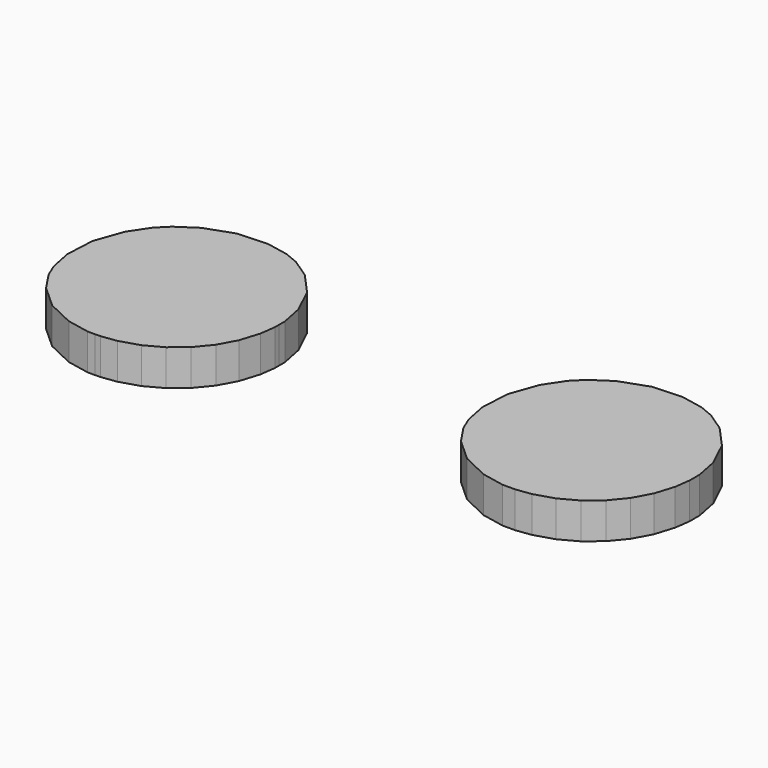
from build123d import *

# Parameters (mm, degrees)
F1_DEPTH = 1


with BuildPart() as f1:
    # F0 (on Top) → F1 (new body)
    with BuildSketch(Plane.XY):
        Polygon((-6.435618, -6.035534), (-6.227443, -6.035534), (-6.227923, -6.03317), (-6.085215, -6.03317), (-5.656435, -5.975429), (-5.123808, -5.810267), (-4.642036, -5.54903), (-4.22198, -5.202845), (-3.875371, -4.783067), (-3.613637, -4.301531), (-3.447769, -3.769127), (-3.389805, -3.34036), (-3.389543, -3.197652), (-3.389543, -2.989434), (-3.514282, -2.365477), (-3.868044, -1.621012), (-4.420559, -1.009572), (-4.949392, -0.655593), (-5.141516, -0.576082), (-5.333945, -0.496354), (-5.95812, -0.372618), (-6.781093, -0.414445), (-7.557746, -0.690877), (-8.087058, -1.043897), (-8.234041, -1.191054), (-8.381154, -1.337994), (-8.734261, -1.867393), (-9.010606, -2.643959), (-9.052477, -3.467193), (-8.928785, -4.091411), (-8.849013, -4.283789), (-8.769502, -4.475926), (-8.415523, -5.004789), (-7.80404, -5.557077), (-7.059618, -5.91083), align=None)
        Polygon((5.094673, -6.03317), (5.302935, -6.03317), (5.445818, -6.03317), (5.874597, -5.975429), (6.407224, -5.810032), (6.889258, -5.548324), (7.309271, -5.201663), (7.655705, -4.781885), (7.917395, -4.299878), (8.082827, -3.767229), (8.140573, -3.338485), (8.140573, -3.195558), (8.140573, -2.987296), (8.015834, -2.36334), (7.662073, -1.618656), (7.109819, -1.007217), (6.580987, -0.653237), (6.388819, -0.573727), (6.196433, -0.493999), (5.572214, -0.370219), (4.749199, -0.41209), (3.972633, -0.688522), (3.443277, -1.041804), (3.296338, -1.188917), (3.149137, -1.3359), (2.795855, -1.865212), (2.51951, -2.641822), (2.477596, -3.464838), (2.601332, -4.089043), (2.681104, -4.28142), (2.760614, -4.473562), (3.114594, -5.002421), (3.726295, -5.554709), (4.470716, -5.908466), align=None)
    extrude(amount=F1_DEPTH)


solid = f1.part
